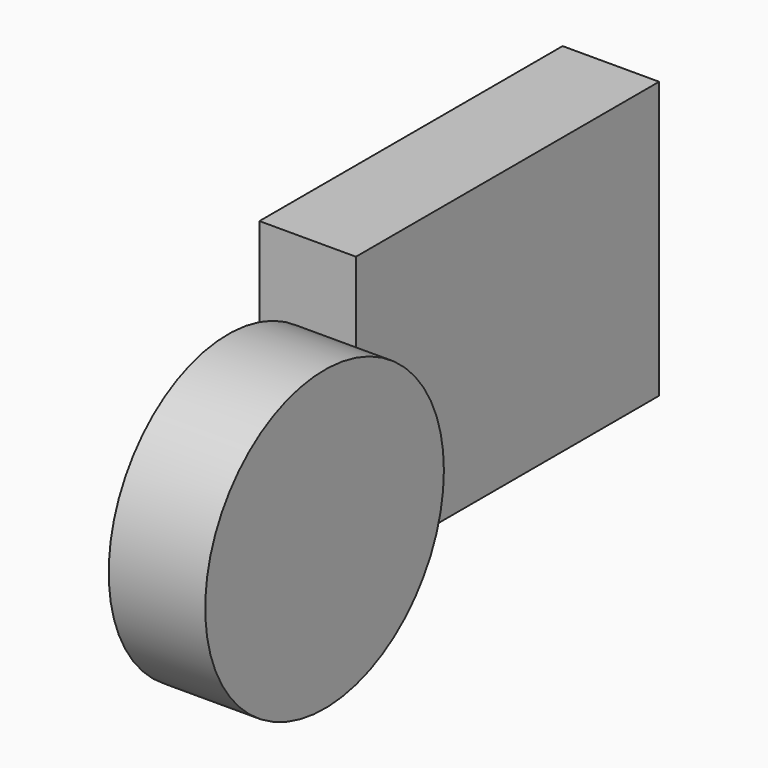
from build123d import *

# Parameters (mm, degrees)
F0_W     = 99.7435823083
F0_H     = 72.7609619498
F0_R     = 32.510213414
F1_DEPTH = 25.4
F2_R     = 39.2648783407
F3_DEPTH = 25.4


with BuildPart() as f1:
    # F0 (on Right) → F1 (new body)
    with BuildSketch(Plane.YZ):
        with Locations((-1.4606527984, 3.7365816534)):
            Rectangle(F0_W, F0_H)
        Circle(F0_R, mode=Mode.SUBTRACT)
        Circle(F0_R)
    extrude(amount=F1_DEPTH)


with BuildPart() as f3:
    # F2 (on face) → F3 (new body)
    with BuildSketch(Plane.YZ.offset(25.4)):
        with Locations((-93.4072956443, 0)):
            Circle(F2_R)
    extrude(amount=F3_DEPTH)


solid = Compound([f1.part, f3.part])
